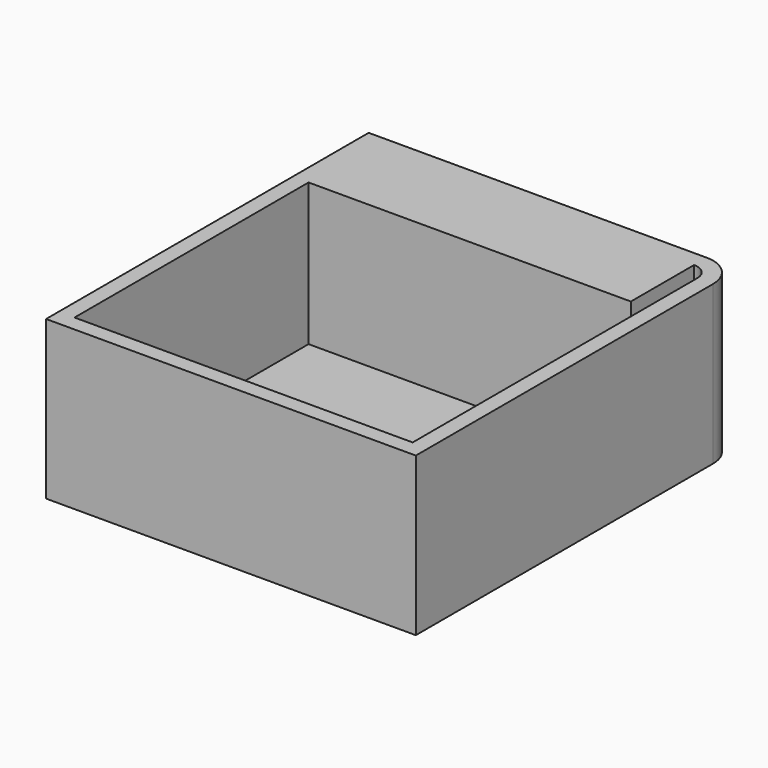
from build123d import *

# Parameters (mm, degrees)
F0_W     = 59.3852698803
F0_H     = 64.7621825337
F1_DEPTH = 25.4
F2_R     = 5.08
F4_DEPTH = 25.4
F5_T     = -2.54
F6_DEPTH = 12.7


with BuildPart() as f1:
    # F0 (on Top) → F1 (new body)
    with BuildSketch(Plane.XY):
        with Locations((29.6926349401, 32.3810912669)):
            Rectangle(F0_W, F0_H)
    extrude(amount=F1_DEPTH)

    # F2
    f2_edges = [f1.edges().sort_by_distance(p)[0] for p in [
        (59.38527, 64.762183, 12.7),
    ]]
    fillet(f2_edges, radius=F2_R)

    # F3 (on face) → F4 (join)
    with BuildSketch(Plane.XY.offset(25.4)):
        Polygon((26.8538445234, 51.118131727), (28.7176296115, 36.2143442035), (49.2836721241, 36.2143442035), (48.5529899597, 51.118131727), align=None)
    extrude(amount=-F4_DEPTH)

    # F5
    f5_openings = [f1.faces().sort_by_distance(p)[0] for p in [
        (29.651452, 32.336032, 25.4),
    ]]
    offset(amount=F5_T, openings=f5_openings)

    # F6 (add): a face of the model
    f6_faces = [f1.faces().sort_by_distance(p)[0] for p in [
        (28.4226349401, 62.2221825337, 13.97),
    ]]
    extrude(f6_faces, amount=F6_DEPTH)


solid = f1.part
